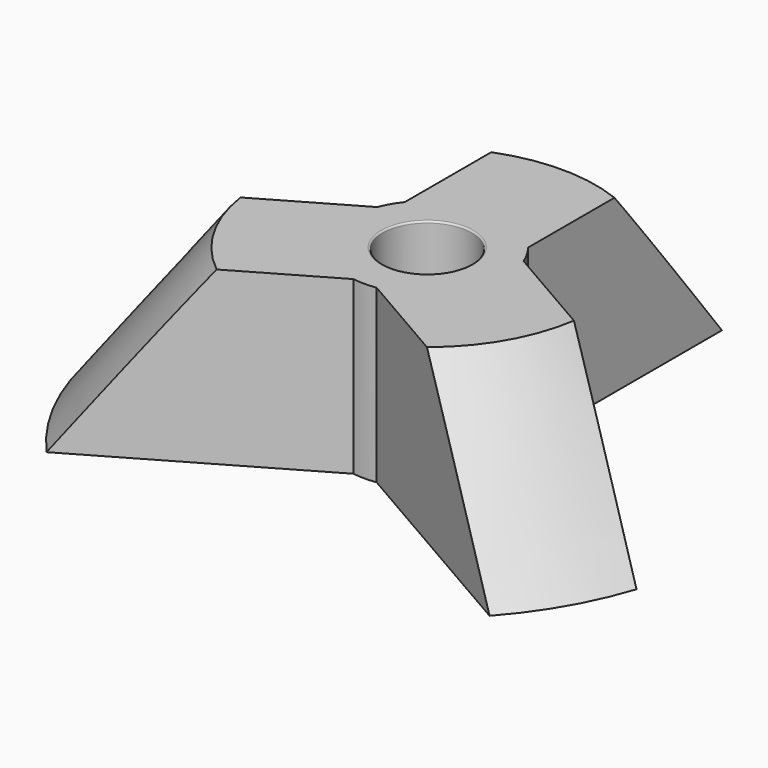
from build123d import *

# Parameters (mm, degrees)
PAD003_DEPTH                = 100
PAD002_DEPTH                = 100
PAD001_DEPTH                = 100
CYLINDER009_R               = 13
CYLINDER009_DEPTH           = 400
CYLINDER009_ROLL_ANGLE      = -23.419924
CYLINDER009_PITCH_ANGLE     = -34.667447
CYLINDER009_PLACEMENT_ANGLE = 7.402808
CYLINDER012_R               = 13
CYLINDER012_DEPTH           = 400
CYLINDER012_PLACEMENT_ANGLE = 41
CYLINDER013_R               = 13
CYLINDER013_DEPTH           = 400
CYLINDER013_ROLL_ANGLE      = -23.419924
CYLINDER013_PITCH_ANGLE     = 34.667447
CYLINDER013_PLACEMENT_ANGLE = -7.402808


with BuildPart() as body004:
    # Sketch005 → Pad003 (new body)
    with BuildSketch(Plane.XY):
        with BuildLine():
            ThreePointArc((86.165943, -28.96332), (78.724727, 45.451743), (18, 89.103555))
            Line((18, 14.317821), (18, 89.103555))
            ThreePointArc((21.399597, 8.429547), (19.918584, 11.5), (18, 14.317821))
            Line((21.399597, 8.429547), (86.165943, -28.96332))
        make_face()
    extrude(amount=PAD003_DEPTH)


with BuildPart() as body003:
    # Sketch006 → Pad002 (new body)
    with BuildSketch(Plane.XY):
        with BuildLine():
            Line((-3.399597, -22.747368), (-68.165943, -60.140235))
            ThreePointArc((-68.165943, -60.140235), (0, -90.903485), (68.165943, -60.140235))
            Line((3.399597, -22.747368), (68.165943, -60.140235))
            ThreePointArc((-3.399597, -22.747368), (0, -23), (3.399597, -22.747368))
        make_face()
    extrude(amount=PAD002_DEPTH)


with BuildPart() as fusion002:
    # Sketch004 → Pad001 (new body)
    with BuildSketch(Plane.XY):
        with BuildLine():
            Line((-21.399597, 8.429547), (-86.165943, -28.96332))
            ThreePointArc((-18, 89.103555), (-78.724727, 45.451743), (-86.165943, -28.96332))
            Line((-18, 14.317821), (-18, 89.103555))
            ThreePointArc((-18, 14.317821), (-19.918584, 11.5), (-21.399597, 8.429547))
        make_face()
    extrude(amount=PAD001_DEPTH)

    # Fusion002: union Body004, Body003
    add(body004.part)
    add(body003.part)


with BuildPart() as fusion002_1:
    # Fusion002 placement: moved
    add(fusion002.part.moved(Location((0, 0, 240))))


with BuildPart() as cylinder009:
    # Cylinder009 → Cylinder009 (new body)
    with BuildSketch(Plane.XY):
        Circle(CYLINDER009_R)
    extrude(amount=CYLINDER009_DEPTH)


with BuildPart() as cylinder009_1:
    # Cylinder009 roll: moved
    add(cylinder009.part.rotate(Axis((0, 0, 0), (1, 0, 0)), CYLINDER009_ROLL_ANGLE))


with BuildPart() as cylinder009_2:
    # Cylinder009 pitch: moved
    add(cylinder009_1.part.rotate(Axis((0, 0, 0), (0, 1, 0)), CYLINDER009_PITCH_ANGLE))


with BuildPart() as cylinder009_3:
    # Cylinder009 placement: moved
    add(cylinder009_2.part.moved(Location((250, -144.34, 0))).rotate(Axis((250, -144.34, 0), (0, 0, 1)), CYLINDER009_PLACEMENT_ANGLE))


with BuildPart() as cylinder012:
    # Cylinder012 → Cylinder012 (new body)
    with BuildSketch(Plane.XY):
        Circle(CYLINDER012_R)
    extrude(amount=CYLINDER012_DEPTH)


with BuildPart() as cylinder012_1:
    # Cylinder012 placement: moved
    add(cylinder012.part.moved(Location((0, 288.68, 0))).rotate(Axis((0, 288.68, 0), (1, 0, 0)), CYLINDER012_PLACEMENT_ANGLE))


with BuildPart() as tripod001:
    # Cylinder013 → Cylinder013 (new body)
    with BuildSketch(Plane.XY):
        Circle(CYLINDER013_R)
    extrude(amount=CYLINDER013_DEPTH)


with BuildPart() as tripod001_1:
    # Cylinder013 roll: moved
    add(tripod001.part.rotate(Axis((0, 0, 0), (1, 0, 0)), CYLINDER013_ROLL_ANGLE))


with BuildPart() as tripod001_2:
    # Cylinder013 pitch: moved
    add(tripod001_1.part.rotate(Axis((0, 0, 0), (0, 1, 0)), CYLINDER013_PITCH_ANGLE))


with BuildPart() as tripod001_3:
    # Cylinder013 placement: moved
    add(tripod001_2.part.moved(Location((-250, -144.34, 0))).rotate(Axis((-250, -144.34, 0), (0, 0, 1)), CYLINDER013_PLACEMENT_ANGLE))

    # Fusion001: union Cylinder009, Cylinder012
    add(cylinder009_3.part)
    add(cylinder012_1.part)


with BuildPart() as f_41_tripodsupport:
    # Sketch001 → Revolution002 (revolve)
    with BuildSketch(Plane.XZ):
        with BuildLine():
            Line((-49.269007, 313), (-13.5, 313))
            ThreePointArc((-13, 312.5), (-13.146447, 312.853553), (-13.5, 313))
            Line((-13, 312.5), (-13, 262.929281))
            Line((-13, 262.929281), (-87, 262.929281))
            Line((-87, 262.929281), (-49.269007, 313))
        make_face()
    revolve(axis=Axis((0, 0, 0), (0, 0, 1)))

    # Cut004: cut Tripod001
    add(tripod001_3.part, mode=Mode.SUBTRACT)

    # Cut005: cut Fusion002
    add(fusion002_1.part, mode=Mode.SUBTRACT)


solid = f_41_tripodsupport.part
